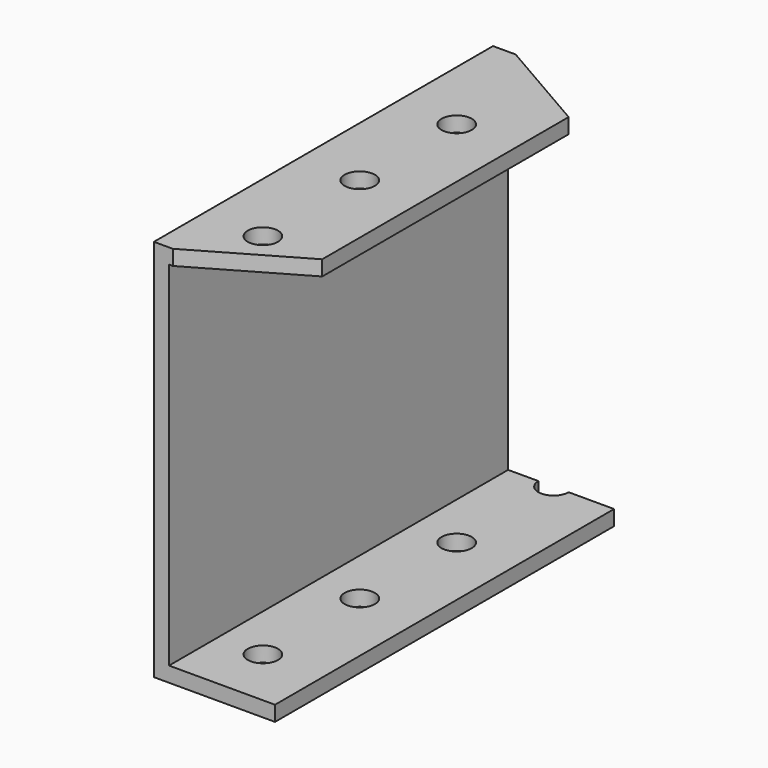
from build123d import *

# Parameters (mm, degrees)
F1_DEPTH = 88.9
F2_R     = 3.175
F3_DEPTH = 101.6
F5_DEPTH = 3.175


with BuildPart() as f1:
    # F0 (on Front) → F1 (new body)
    with BuildSketch(Plane.XZ):
        Polygon((3.47705, 44.675883), (-21.92295, 44.675883), (-21.92295, -35.715117), (3.47705, -35.715117), (3.47705, -32.540117), (-18.74795, -32.540117), (-18.74795, 41.500883), (3.47705, 41.500883), align=None)
    extrude(amount=F1_DEPTH)

    # F2 (on face) → F3 (cut)
    with BuildSketch(Plane.XY.offset(44.675883)):
        with Locations((-9.22295, -76.2)):
            Circle(F2_R)
        with Locations((-9.22295, -50.8)):
            Circle(F2_R)
        with Locations((-9.22295, -25.4)):
            Circle(F2_R)
        with Locations((-9.22295, 0)):
            Circle(F2_R)
        with Locations((-34.62295, -76.2)):
            Circle(F2_R)
        with Locations((-34.62295, -50.8)):
            Circle(F2_R)
        with Locations((-34.62295, -25.4)):
            Circle(F2_R)
        with Locations((-34.62295, 0)):
            Circle(F2_R)
    extrude(amount=-F3_DEPTH, mode=Mode.SUBTRACT)

    # F4 (on face) → F5 (cut)
    with BuildSketch(Plane.XY.offset(44.675883)):
        with BuildLine():
            Line((-17.16045, 0), (3.47705, -11.915066))
            Line((3.47705, -11.915066), (3.47705, 0))
            Line((3.47705, 0), (-6.04795, 0))
            ThreePointArc((-6.04795, 0), (-9.22295, -3.175), (-12.39795, 0))
            Line((-12.39795, 0), (-17.16045, 0))
        make_face()
        Polygon((3.47705, -76.521958), (-17.962348, -88.9), (3.47705, -88.9), align=None)
    extrude(amount=-F5_DEPTH, mode=Mode.SUBTRACT)


solid = f1.part
